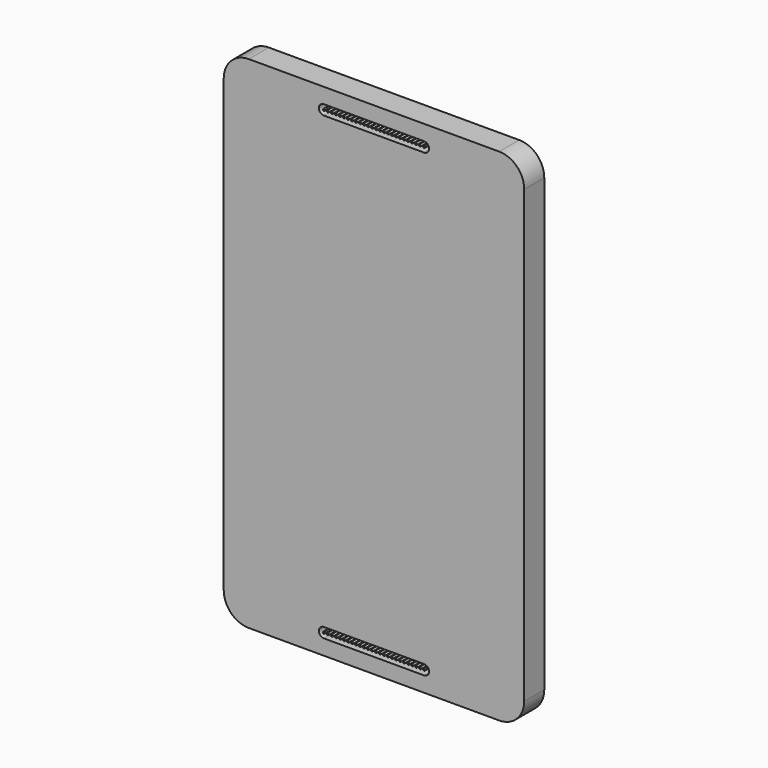
from build123d import *

# Parameters (mm, degrees)
F1_DEPTH = 6.35
F2_R     = 0.254
F3_DEPTH = 2.54


with BuildPart() as f1:
    # F0 (on Front) → F1 (new body)
    with BuildSketch(Plane.XZ):
        with BuildLine():
            Line((31.75, 63.5), (0, 63.5))
            Line((0, 63.5), (-31.75, 63.5))
            ThreePointArc((-31.75, 63.5), (-36.240128, 61.640128), (-38.1, 57.15))
            Line((-38.1, 57.15), (-38.1, 0))
            Line((-38.1, 0), (-38.1, -57.15))
            ThreePointArc((-38.1, -57.15), (-36.240128, -61.640128), (-31.75, -63.5))
            Line((-31.75, -63.5), (0, -63.5))
            Line((0, -63.5), (31.75, -63.5))
            ThreePointArc((31.75, -63.5), (36.240128, -61.640128), (38.1, -57.15))
            Line((38.1, -57.15), (38.1, 0))
            Line((38.1, 0), (38.1, 57.15))
            ThreePointArc((38.1, 57.15), (36.240128, 61.640128), (31.75, 63.5))
        make_face()
    extrude(amount=F1_DEPTH)

    # F2 (on face) → F3 (cut)
    with BuildSketch(Plane.XZ.offset(6.35)):
        with BuildLine():
            Line((-12.7, 57.084929), (12.7, 57.084929))
            Line((12.7, 57.084929), (12.7, 58.100929))
            ThreePointArc((12.7, 58.100929), (12.446, 58.354929), (12.7, 58.608929))
            Line((12.7, 58.608929), (12.7, 59.624929))
            Line((12.7, 59.624929), (-12.7, 59.624929))
            Line((-12.7, 59.624929), (-12.7, 58.608929))
            ThreePointArc((-12.7, 58.608929), (-12.520395, 58.534534), (-12.446, 58.354929))
            ThreePointArc((-12.446, 58.354929), (-12.520395, 58.175324), (-12.7, 58.100929))
            Line((-12.7, 58.100929), (-12.7, 57.084929))
        make_face()
        with Locations((-11.684, 58.354929)):
            Circle(F2_R, mode=Mode.SUBTRACT)
        with Locations((-10.668, 58.354929)):
            Circle(F2_R, mode=Mode.SUBTRACT)
        with Locations((-9.652, 58.354929)):
            Circle(F2_R, mode=Mode.SUBTRACT)
        with Locations((-8.636, 58.354929)):
            Circle(F2_R, mode=Mode.SUBTRACT)
        with Locations((-7.62, 58.354929)):
            Circle(F2_R, mode=Mode.SUBTRACT)
        with Locations((-6.604, 58.354929)):
            Circle(F2_R, mode=Mode.SUBTRACT)
        with Locations((-5.588, 58.354929)):
            Circle(F2_R, mode=Mode.SUBTRACT)
        with Locations((-4.572, 58.354929)):
            Circle(F2_R, mode=Mode.SUBTRACT)
        with Locations((-3.556, 58.354929)):
            Circle(F2_R, mode=Mode.SUBTRACT)
        with Locations((-2.54, 58.354929)):
            Circle(F2_R, mode=Mode.SUBTRACT)
        with Locations((-1.524, 58.354929)):
            Circle(F2_R, mode=Mode.SUBTRACT)
        with Locations((-0.508, 58.354929)):
            Circle(F2_R, mode=Mode.SUBTRACT)
        with Locations((0.508, 58.354929)):
            Circle(F2_R, mode=Mode.SUBTRACT)
        with Locations((1.524, 58.354929)):
            Circle(F2_R, mode=Mode.SUBTRACT)
        with Locations((2.54, 58.354929)):
            Circle(F2_R, mode=Mode.SUBTRACT)
        with Locations((3.556, 58.354929)):
            Circle(F2_R, mode=Mode.SUBTRACT)
        with Locations((4.572, 58.354929)):
            Circle(F2_R, mode=Mode.SUBTRACT)
        with Locations((5.588, 58.354929)):
            Circle(F2_R, mode=Mode.SUBTRACT)
        with Locations((6.604, 58.354929)):
            Circle(F2_R, mode=Mode.SUBTRACT)
        with Locations((7.62, 58.354929)):
            Circle(F2_R, mode=Mode.SUBTRACT)
        with Locations((8.636, 58.354929)):
            Circle(F2_R, mode=Mode.SUBTRACT)
        with Locations((9.652, 58.354929)):
            Circle(F2_R, mode=Mode.SUBTRACT)
        with Locations((10.668, 58.354929)):
            Circle(F2_R, mode=Mode.SUBTRACT)
        with Locations((11.684, 58.354929)):
            Circle(F2_R, mode=Mode.SUBTRACT)
        with BuildLine():
            ThreePointArc((-12.7, 59.624929), (-13.97, 58.354929), (-12.7, 57.084929))
            Line((-12.7, 57.084929), (-12.7, 58.100929))
            ThreePointArc((-12.7, 58.100929), (-12.954, 58.354929), (-12.7, 58.608929))
            Line((-12.7, 58.608929), (-12.7, 59.624929))
        make_face()
        with BuildLine():
            Line((12.7, 58.100929), (12.7, 57.084929))
            ThreePointArc((12.7, 57.084929), (13.97, 58.354929), (12.7, 59.624929))
            Line((12.7, 59.624929), (12.7, 58.608929))
            ThreePointArc((12.7, 58.608929), (12.879605, 58.534534), (12.954, 58.354929))
            ThreePointArc((12.954, 58.354929), (12.879605, 58.175324), (12.7, 58.100929))
        make_face()
        with BuildLine():
            ThreePointArc((-12.7, -58.100929), (-12.520395, -58.175324), (-12.446, -58.354929))
            ThreePointArc((-12.446, -58.354929), (-12.520395, -58.534534), (-12.7, -58.608929))
            Line((-12.7, -58.608929), (-12.7, -59.624929))
            Line((-12.7, -59.624929), (12.7, -59.624929))
            Line((12.7, -59.624929), (12.7, -58.608929))
            ThreePointArc((12.7, -58.608929), (12.446, -58.354929), (12.7, -58.100929))
            Line((12.7, -58.100929), (12.7, -57.084929))
            Line((12.7, -57.084929), (-12.7, -57.084929))
            Line((-12.7, -57.084929), (-12.7, -58.100929))
        make_face()
        with Locations((-11.684, -58.354929)):
            Circle(F2_R, mode=Mode.SUBTRACT)
        with Locations((-10.668, -58.354929)):
            Circle(F2_R, mode=Mode.SUBTRACT)
        with Locations((-9.652, -58.354929)):
            Circle(F2_R, mode=Mode.SUBTRACT)
        with Locations((-8.636, -58.354929)):
            Circle(F2_R, mode=Mode.SUBTRACT)
        with Locations((-7.62, -58.354929)):
            Circle(F2_R, mode=Mode.SUBTRACT)
        with Locations((-6.604, -58.354929)):
            Circle(F2_R, mode=Mode.SUBTRACT)
        with Locations((-5.588, -58.354929)):
            Circle(F2_R, mode=Mode.SUBTRACT)
        with Locations((-4.572, -58.354929)):
            Circle(F2_R, mode=Mode.SUBTRACT)
        with Locations((-3.556, -58.354929)):
            Circle(F2_R, mode=Mode.SUBTRACT)
        with Locations((-2.54, -58.354929)):
            Circle(F2_R, mode=Mode.SUBTRACT)
        with Locations((-1.524, -58.354929)):
            Circle(F2_R, mode=Mode.SUBTRACT)
        with Locations((-0.508, -58.354929)):
            Circle(F2_R, mode=Mode.SUBTRACT)
        with Locations((0.508, -58.354929)):
            Circle(F2_R, mode=Mode.SUBTRACT)
        with Locations((1.524, -58.354929)):
            Circle(F2_R, mode=Mode.SUBTRACT)
        with Locations((2.54, -58.354929)):
            Circle(F2_R, mode=Mode.SUBTRACT)
        with Locations((3.556, -58.354929)):
            Circle(F2_R, mode=Mode.SUBTRACT)
        with Locations((4.572, -58.354929)):
            Circle(F2_R, mode=Mode.SUBTRACT)
        with Locations((5.588, -58.354929)):
            Circle(F2_R, mode=Mode.SUBTRACT)
        with Locations((6.604, -58.354929)):
            Circle(F2_R, mode=Mode.SUBTRACT)
        with Locations((7.62, -58.354929)):
            Circle(F2_R, mode=Mode.SUBTRACT)
        with Locations((8.636, -58.354929)):
            Circle(F2_R, mode=Mode.SUBTRACT)
        with Locations((9.652, -58.354929)):
            Circle(F2_R, mode=Mode.SUBTRACT)
        with Locations((10.668, -58.354929)):
            Circle(F2_R, mode=Mode.SUBTRACT)
        with Locations((11.684, -58.354929)):
            Circle(F2_R, mode=Mode.SUBTRACT)
        with BuildLine():
            ThreePointArc((12.7, -59.624929), (13.97, -58.354929), (12.7, -57.084929))
            Line((12.7, -57.084929), (12.7, -58.100929))
            ThreePointArc((12.7, -58.100929), (12.879605, -58.175324), (12.954, -58.354929))
            ThreePointArc((12.954, -58.354929), (12.879605, -58.534534), (12.7, -58.608929))
            Line((12.7, -58.608929), (12.7, -59.624929))
        make_face()
        with BuildLine():
            ThreePointArc((-12.7, -58.608929), (-12.954, -58.354929), (-12.7, -58.100929))
            Line((-12.7, -58.100929), (-12.7, -57.084929))
            ThreePointArc((-12.7, -57.084929), (-13.97, -58.354929), (-12.7, -59.624929))
            Line((-12.7, -59.624929), (-12.7, -58.608929))
        make_face()
    extrude(amount=-F3_DEPTH, mode=Mode.SUBTRACT)


solid = f1.part
